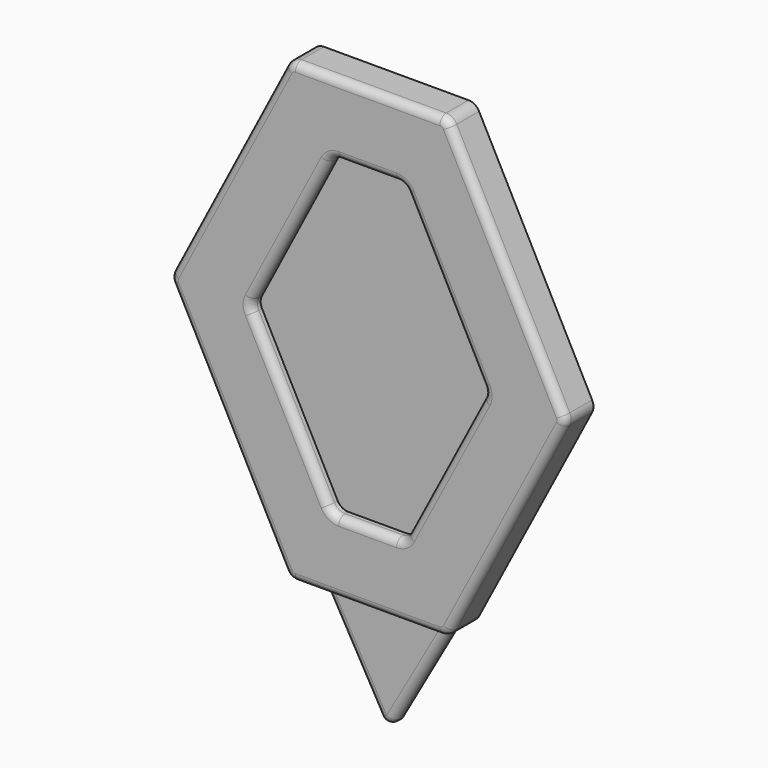
from build123d import *

# Parameters (mm, degrees)
F1_DEPTH = 3
F3_DEPTH = 3
F5_DEPTH = 3
F6_R     = 3
F7_R     = 2


with BuildPart() as f1:
    # F0 (on Front) → F1 (new body)
    with BuildSketch(Plane.XZ):
        Polygon((20, 51.98047), (0, 51.98047), (-20, 51.98047), (-50, -5.682343), (-20, -63.01953), (-17, -63.01953), (0, -63.01953), (17, -63.01953), (20, -63.01953), (50, -5.682343), align=None)
        Polygon((0, -93.01953), (17, -63.01953), (0, -63.01953), (-17, -63.01953), align=None)
    extrude(amount=F1_DEPTH)

    # F2 (on face) → F3 (join)
    with BuildSketch(Plane.XZ.offset(3)):
        Polygon((20, 51.98047), (-20, 51.98047), (-50, -5.682343), (-20, -63.01953), (20, -63.01953), (50, -5.682343), align=None)
    extrude(amount=F3_DEPTH)

    # F4 (on face) → F5 (join)
    with BuildSketch(Plane.XZ.offset(6)):
        Polygon((20, 51.98047), (-20, 51.98047), (-50, -5.682343), (-20, -63.01953), (20, -63.01953), (50, -5.682343), align=None)
        Polygon((-9.102997, -45.01953), (-29.697361, -5.658767), (-9.074414, 33.98047), (9.074414, 33.98047), (29.697361, -5.658767), (9.102997, -45.01953), align=None, mode=Mode.SUBTRACT)
    extrude(amount=F5_DEPTH)

    # F6
    f6_edges = [f1.edges().sort_by_distance(p)[0] for p in [
        (-20, -4.5, 51.98047),
        (20, -4.5, 51.98047),
        (-50, -4.5, -5.682343),
        (-20, -4.5, -63.01953),
        (20, -4.5, -63.01953),
        (50, -4.5, -5.682343),
        (9.074414, -7.5, 33.98047),
        (29.697361, -7.5, -5.658767),
        (-9.074414, -7.5, 33.98047),
        (-29.697361, -7.5, -5.658767),
        (-9.102997, -7.5, -45.01953),
        (9.102997, -7.5, -45.01953),
    ]]
    fillet(f6_edges, radius=F6_R)

    # F7
    f7_edges = [f1.edges().sort_by_distance(p)[0] for p in [
        (-35.059009, -9, 23.035643),
        (-19.444896, -9, 14.047431),
        (8.5, -3, -78.01953),
        (-8.5, -3, -78.01953),
        (0, -1.5, -93.01953),
    ]]
    fillet(f7_edges, radius=F7_R)


solid = f1.part
